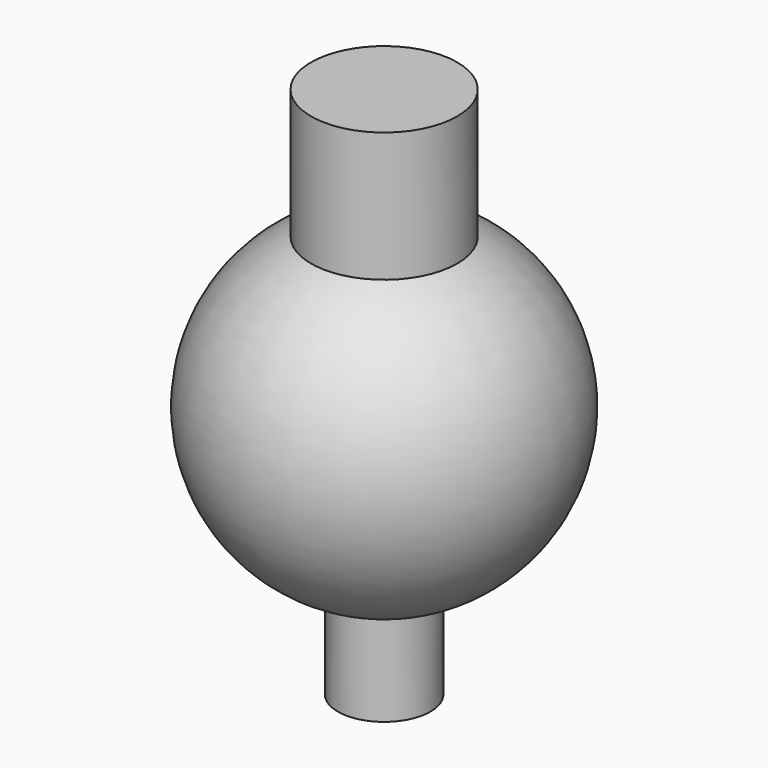
from build123d import *


with BuildPart() as f1:
    # F0 (on Front) → F1 (revolve)
    with BuildSketch(Plane.XZ):
        with BuildLine():
            Line((0, 714), (0, 0))
            Line((0, 0), (62, 0))
            Line((62, 0), (62, 125.792157))
            ThreePointArc((62, 125.792157), (222.163742, 320.705653), (98, 540.312256))
            Line((98, 540.312256), (98, 714))
            Line((98, 714), (0, 714))
        make_face()
    revolve(axis=Axis((0, 0, 357), (0, 0, -1)))


solid = f1.part
